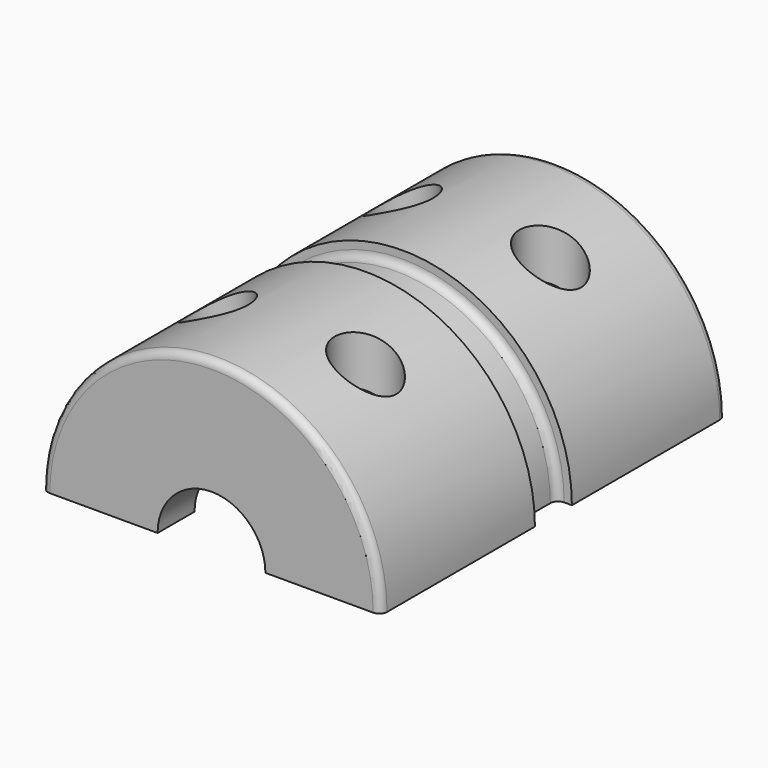
from build123d import *

# Parameters (mm, degrees)
F1_DEPTH      = 14
F2_R          = 8
F3_DEPTH      = 11
F4_R          = 3.5
F5_DEPTH      = 14.001
F5_DEPTH_BACK = 14.001
F6_R          = 2
F7_DEPTH      = 11.001
F8_R          = 11
F8_R_2        = 10
F9_DEPTH      = 1.5
F10_R         = 0.5


with BuildPart() as f1:
    # F0 (on Front) → F1 (new body, symmetric)
    with BuildSketch(Plane.XZ):
        with BuildLine():
            Line((8, 0), (11, 0))
            ThreePointArc((11, 0), (0, 11), (-11, 0))
            Line((-11, 0), (-8, 0))
            Line((-8, 0), (8, 0))
        make_face()
    extrude(amount=F1_DEPTH, both=True)

    # F2 (on Front) → F3 (cut, symmetric)
    with BuildSketch(Plane.XZ):
        Circle(F2_R)
    extrude(amount=F3_DEPTH, both=True, mode=Mode.SUBTRACT)

    # F4 (on Front) → F5 (cut, two sides)
    with BuildSketch(Plane.XZ) as f5_sk:
        Circle(F4_R)
    extrude(amount=-F5_DEPTH, mode=Mode.SUBTRACT)
    extrude(f5_sk.sketch, amount=F5_DEPTH_BACK, mode=Mode.SUBTRACT)

    # F6 (on Top) → F7 (cut, through all)
    with BuildSketch(Plane.XY):
        with Locations((4.8, 7.5)):
            Circle(F6_R)
        with Locations((-4.8, 7.5)):
            Circle(F6_R)
        with Locations((4.8, -7.5)):
            Circle(F6_R)
        with Locations((-4.8, -7.5)):
            Circle(F6_R)
    extrude(amount=F7_DEPTH, mode=Mode.SUBTRACT)

    # F8 (on Front) → F9 (cut, symmetric)
    with BuildSketch(Plane.XZ):
        Circle(F8_R)
        Circle(F8_R_2, mode=Mode.SUBTRACT)
    extrude(amount=F9_DEPTH, both=True, mode=Mode.SUBTRACT)

    # F10
    f10_edges = [f1.edges().sort_by_distance(p)[0] for p in [
        (0, 1.5, 10),
        (0, -1.5, 10),
        (0, 14, 11),
        (0, -14, 11),
        (0, 11, 8),
        (0, -11, 8),
    ]]
    fillet(f10_edges, radius=F10_R)


solid = f1.part
